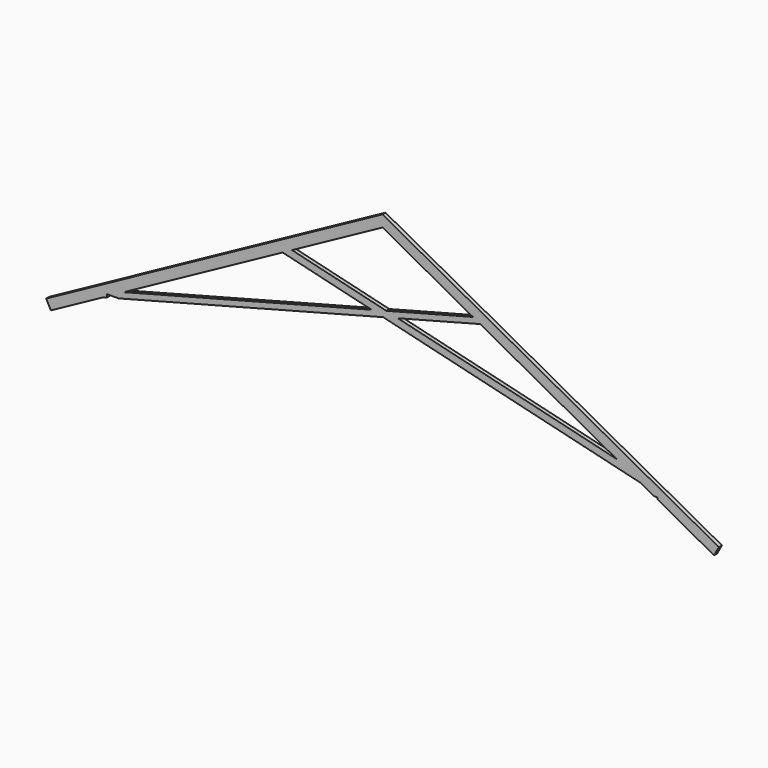
from build123d import *

# Parameters (mm, degrees)
F1_DEPTH = 38.1


with BuildPart() as f1:
    # F0 (on Front) → F1 (new body)
    with BuildSketch(Plane.XZ):
        Polygon((3352.8, 1828.8), (0, 0), (48.164863, -88.302248), (570.0054, 196.338044), (606.592, 205.947283), (606.592, 236.280158), (722.082602, 236.280158), (3360.251015, 929.178376), (5928.690613, 309.194765), (6062.367392, 236.280158), (6092.992, 236.280158), (6092.992, 219.575827), (6657.435137, -88.302248), (6705.6, 0), align=None)
        Polygon((3245.011222, 956.99557), (775.387156, 308.364457), (2357.363568, 1171.260682), align=None, mode=Mode.SUBTRACT)
        Polygon((5686.95582, 441.050107), (3506.08412, 967.480517), (4326.697214, 1183.009346), align=None, mode=Mode.SUBTRACT)
        Polygon((2450.78043, 1222.215334), (3352.8, 1714.226008), (4254.81957, 1222.215334), (3390.844327, 995.297711), align=None, mode=Mode.SUBTRACT)
    extrude(amount=F1_DEPTH)


solid = f1.part
